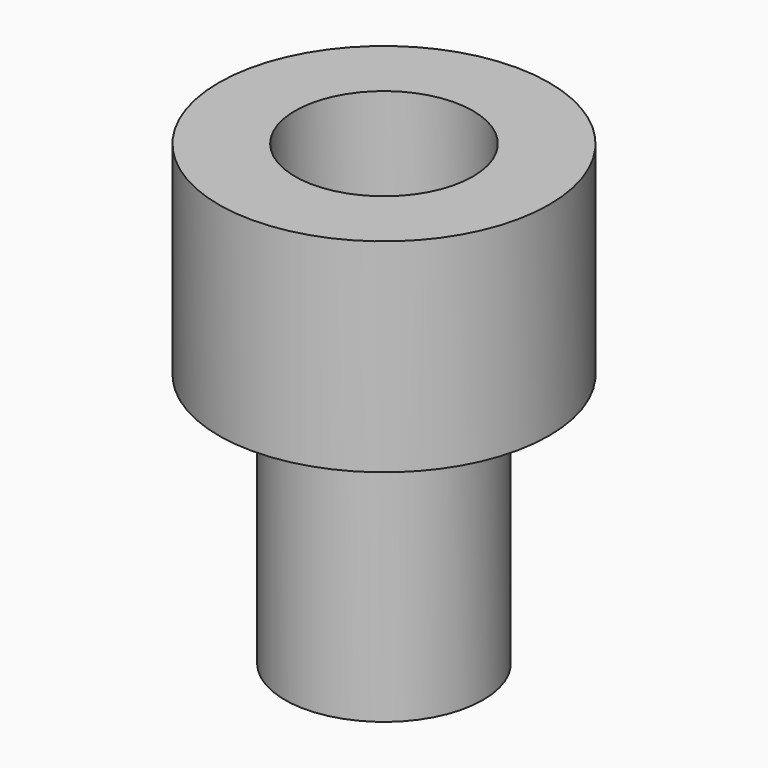
from build123d import *

# Parameters (mm, degrees)
SKETCH031_R     = 3.9
PAD003_DEPTH    = 10
SKETCH032_R     = 6.5
PAD004_DEPTH    = 8
SKETCH033_R     = 3.5
POCKET025_DEPTH = 6


with BuildPart() as part:
    # Sketch031 → Pad003 (new body)
    with BuildSketch(Plane.XY):
        Circle(SKETCH031_R)
    extrude(amount=PAD003_DEPTH)

    # Sketch032 → Pad004 (join)
    with BuildSketch(Plane.XY.offset(10)):
        Circle(SKETCH032_R)
    extrude(amount=PAD004_DEPTH)

    # Sketch033 → Pocket025 (cut)
    with BuildSketch(Plane.XY.offset(18)):
        Circle(SKETCH033_R)
    extrude(amount=-POCKET025_DEPTH, mode=Mode.SUBTRACT)


solid = part.part
